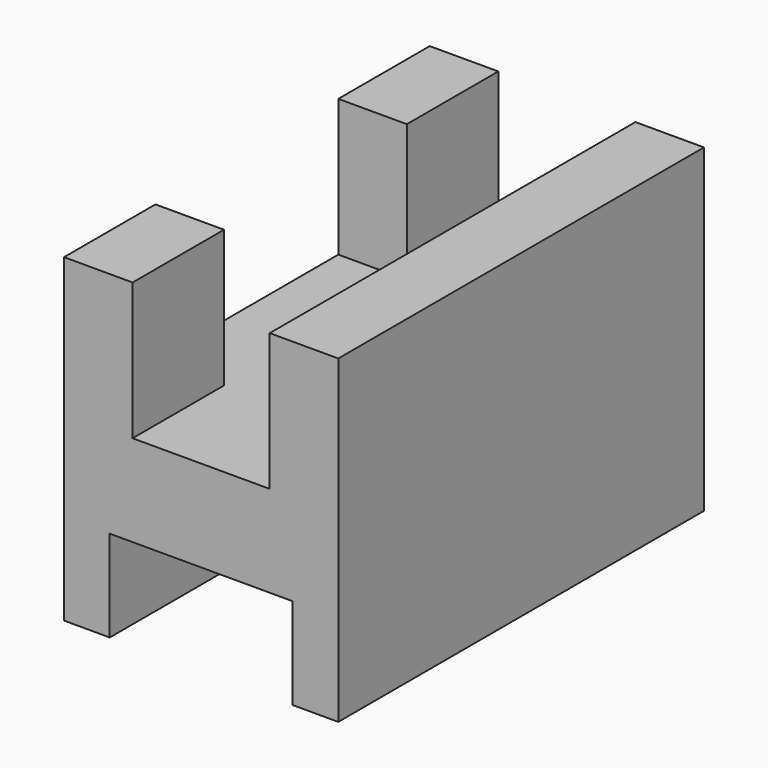
from build123d import *

# Parameters (mm, degrees)
F0_W     = 38.1
F0_H     = 44.45
F1_DEPTH = 63.5
F2_W     = 19.05
F2_H     = 19.05
F3_DEPTH = 63.501
F4_W     = 25.4
F4_H     = 12.7
F5_DEPTH = 63.501
F6_W     = 31.75
F6_H     = 19.05
F7_DEPTH = 9.525


with BuildPart() as f1:
    # F0 (on Front) → F1 (new body)
    with BuildSketch(Plane.XZ):
        Rectangle(F0_W, F0_H)
    extrude(amount=F1_DEPTH)

    # F2 (on face) → F3 (cut, through all)
    with BuildSketch(Plane.XZ.offset(63.5)):
        with Locations((0, 12.7)):
            Rectangle(F2_W, F2_H)
    extrude(amount=-F3_DEPTH, mode=Mode.SUBTRACT)

    # F4 (on face) → F5 (cut, through all)
    with BuildSketch(Plane.XZ.offset(63.5)):
        with Locations((0, -15.875)):
            Rectangle(F4_W, F4_H)
    extrude(amount=-F5_DEPTH, mode=Mode.SUBTRACT)

    # F6 (on face) → F7 (cut, through all)
    with BuildSketch(Plane(origin=(-19.05, 0, 0), x_dir=(0, -1, 0), z_dir=(-1, 0, 0))):
        with Locations((31.75, 12.7)):
            Rectangle(F6_W, F6_H)
    extrude(amount=-F7_DEPTH, mode=Mode.SUBTRACT)


solid = f1.part
